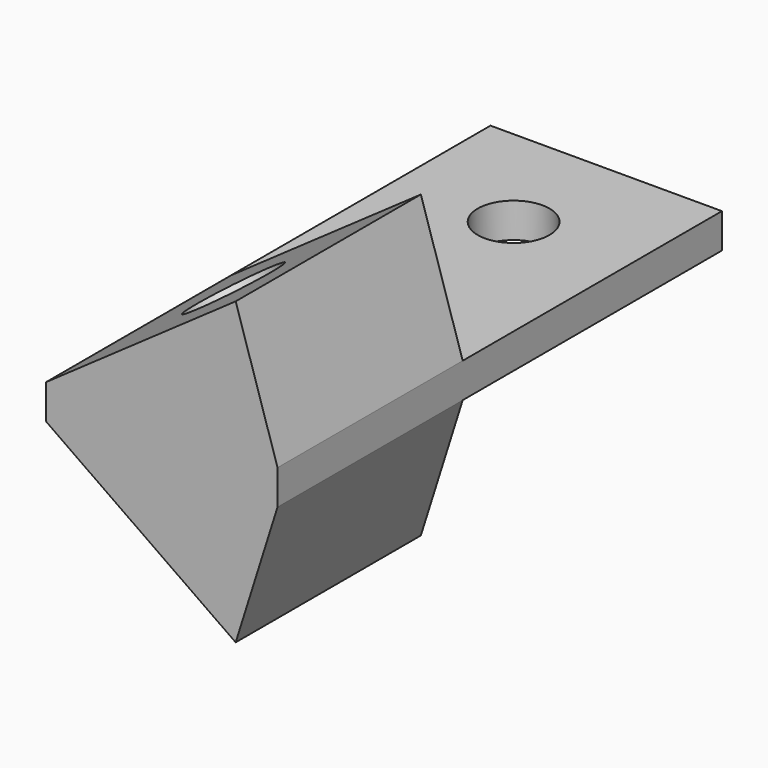
from build123d import *

# Parameters (mm, degrees)
F0_W     = 20
F0_H     = 48
F1_DEPTH = 3
F2_R     = 3.1
F3_DEPTH = 25
F5_DEPTH = 20
F6_R     = 3.9
F7_DEPTH = 5
F8_R     = 3.9
F9_DEPTH = 5


with BuildPart() as f1:
    # F0 (on Top) → F1 (new body)
    with BuildSketch(Plane.XY):
        Rectangle(F0_W, F0_H)
    extrude(amount=F1_DEPTH)

    # F2 (on face) → F3 (cut)
    with BuildSketch(Plane.XY.offset(3)):
        with Locations((0, 14)):
            Circle(F2_R)
    extrude(amount=-F3_DEPTH, mode=Mode.SUBTRACT)

    # F4 (on face) → F5 (join)
    with BuildSketch(Plane.XZ.offset(24)):
        Polygon((6.3830408858, 14.471528727), (-10, 3), (10, 3), align=None)
        Polygon((10, 0), (-10, 0), (6.3830408858, -11.471528727), align=None)
    extrude(amount=-F5_DEPTH)

    # F6 (on face) → F7 (cut)
    with BuildSketch(Plane(origin=(-4.6994382146, 0, 6.7114933189), x_dir=(0.8191520443, 0, 0.5735764364), z_dir=(-0.5735764364, 0, 0.8191520443))):
        with Locations((3.5292088662, -14)):
            Circle(F6_R)
    extrude(amount=-F7_DEPTH, mode=Mode.SUBTRACT)

    # F8 (on face) → F9 (cut)
    with BuildSketch(Plane(origin=(-3.2898992834, 0, -4.6984631039), x_dir=(0.8191520443, 0, -0.5735764364), z_dir=(-0.5735764364, 0, -0.8191520443))):
        with Locations((1.8084795571, 14)):
            Circle(F8_R)
    extrude(amount=-F9_DEPTH, mode=Mode.SUBTRACT)


solid = f1.part
